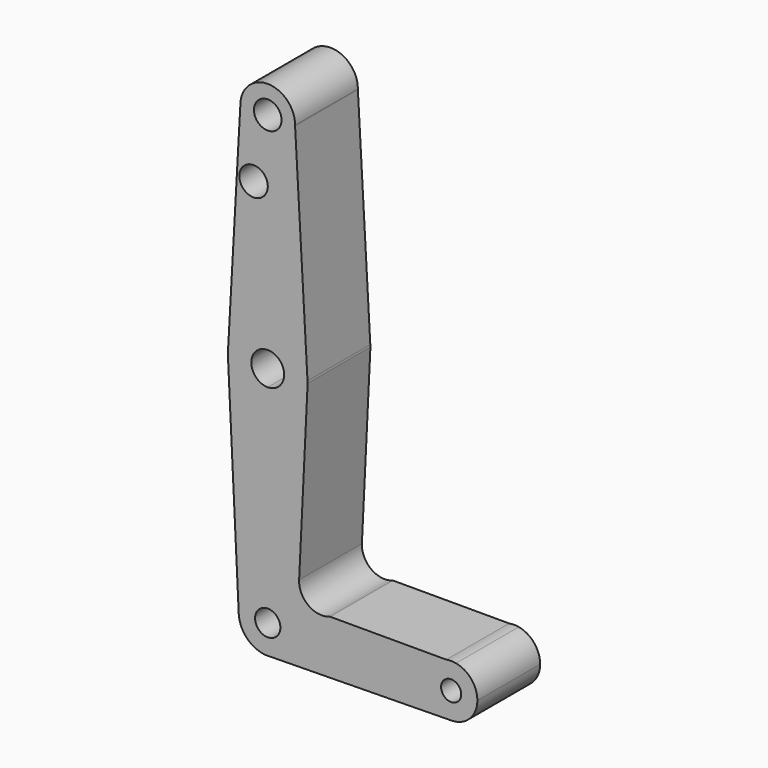
from build123d import *

# Parameters (mm, degrees)
F0_R     = 4.100527945
F0_R_2   = 3.2553358604
F1_DEPTH = 25.4


with BuildPart() as f1:
    # F0 (on Front) → F1 (new body)
    with BuildSketch(Plane.XZ):
        with BuildLine():
            ThreePointArc((0, -5.3145587727), (-5.3145587727, 0), (0, 5.3145587727))
            Line((0, 5.3145587727), (0, 12.8903631138))
            ThreePointArc((0, 12.8903631138), (-8.8562159855, 9.3663706752), (-12.8701730071, 0.7211851179))
            ThreePointArc((-12.8701730071, 0.7211851179), (-9.3663706752, -8.8562159855), (0, -12.8903631138))
            Line((0, -12.8903631138), (0, -5.3145587727))
        make_face()
        with BuildLine():
            Line((0, 12.8903631138), (0, 5.3145587727))
            ThreePointArc((0, 5.3145587727), (3.7579605472, 3.7579605472), (5.3145587727, 0))
            ThreePointArc((5.3145587727, 0), (3.7579605472, -3.7579605472), (0, -5.3145587727))
            Line((0, -5.3145587727), (0, -12.8903631138))
            ThreePointArc((0, -12.8903631138), (9.1148631697, -9.1148631697), (12.8903631138, 0))
            ThreePointArc((12.8903631138, 0), (12.8852513702, 0.3629853085), (12.8699201933, 0.7256827295))
            ThreePointArc((12.8699201933, 0.7256827295), (8.854579248, 9.3679179943), (0, 12.8903631138))
        make_face()
        with BuildLine():
            ThreePointArc((-12.8701730071, 0.7211851179), (-8.8562159855, 9.3663706752), (0, 12.8903631138))
            Line((0, 12.8903631138), (0, 51.4917845364))
            ThreePointArc((0, 51.4917845364), (-9.2008924398, 51.8925450742), (0, 52.2933056121))
            Line((0, 52.2933056121), (0, 63.4140789116))
            ThreePointArc((0, 63.4140789116), (-6.3213763068, 66.0690240438), (-8.8512963855, 72.4414675675))
            Line((-8.8512963855, 72.4414675675), (-12.8701730071, 0.7211851179))
        make_face()
        with BuildLine():
            Line((0, 51.4917845364), (0, 12.8903631138))
            ThreePointArc((0, 12.8903631138), (8.854579248, 9.3679179943), (12.8699201933, 0.7256827295))
            Line((12.8699201933, 0.7256827295), (8.8496832729, 72.024275454))
            ThreePointArc((8.8496832729, 72.024275454), (6.1735803738, 65.921798473), (0, 63.4140789116))
            Line((0, 63.4140789116), (0, 52.2933056121))
            ThreePointArc((0, 52.2933056121), (0.0130897879, 52.0931153324), (0.0174558077, 51.8925450742))
            ThreePointArc((0.0174558077, 51.8925450742), (0.0130897879, 51.691974816), (0, 51.4917845364))
        make_face()
        with BuildLine():
            ThreePointArc((12.8903631138, 0), (9.1148631697, -9.1148631697), (0, -12.8903631138))
            Line((0, -12.8903631138), (0, -63.059151577))
            ThreePointArc((0, -63.059151577), (0.4925974656, -63.072078081), (0.9838390208, -63.110822012))
            ThreePointArc((0.9838390208, -63.110822012), (6.9805417149, -66.1675536831), (9.3923058042, -72.4514573812))
            ThreePointArc((9.3923058042, -72.4514573812), (6.9547187726, -78.7639287764), (0.9072125917, -81.7998462068))
            Line((0.9072125917, -81.7998462068), (59.488009246, -80.9311123288))
            ThreePointArc((59.488009246, -80.9311123288), (56.7257095574, -80.5117904702), (54.2495770477, -79.2176118948))
            ThreePointArc((54.2495770477, -79.2176118948), (50.9036492433, -71.8413047594), (55.2735928676, -65.0215736395))
            ThreePointArc((55.2735928676, -65.0215736395), (56.4936209685, -64.4707758049), (57.7851192264, -64.118811217))
            Line((57.7851192264, -64.118811217), (20.1766155648, -64.118811217))
            ThreePointArc((20.1766155648, -64.118811217), (13.2047572322, -63.2148752561), (10.1571750656, -56.8795653371))
            Line((10.1571750656, -56.8795653371), (12.9108384834, 0))
            Line((12.9108384834, 0), (12.8699201933, 0.7256827295))
            ThreePointArc((12.8699201933, 0.7256827295), (12.8852513702, 0.3629853085), (12.8903631138, 0))
        make_face()
        with BuildLine():
            Line((0, -63.059151577), (0, -12.8903631138))
            ThreePointArc((0, -12.8903631138), (-9.3663706752, -8.8562159855), (-12.8701730071, 0.7211851179))
            Line((-12.8701730071, 0.7211851179), (-12.9105849228, 0))
            Line((-12.9105849228, 0), (-9.3813201349, -72.905594857))
            ThreePointArc((-9.3813201349, -72.905594857), (-6.8000296459, -65.9726453655), (0, -63.059151577))
        make_face()
        with BuildLine():
            Line((0.9838390208, -63.110822012), (0, -63.059151577))
            ThreePointArc((0, -63.059151577), (-6.8000296459, -65.9726453655), (-9.3813201349, -72.905594857))
            ThreePointArc((-9.3813201349, -72.905594857), (-6.4788120158, -79.2514870271), (0, -81.8437631855))
            Line((0, -81.8437631855), (0.9072125917, -81.7998462068))
            ThreePointArc((0.9072125917, -81.7998462068), (6.9547187726, -78.7639287764), (9.3923058042, -72.4514573812))
            ThreePointArc((9.3923058042, -72.4514573812), (6.9805417149, -66.1675536831), (0.9838390208, -63.110822012))
        make_face()
        with Locations((0, -72.4514573812)):
            Circle(F0_R, mode=Mode.SUBTRACT)
        with BuildLine():
            ThreePointArc((0, 63.4140789116), (6.1735803738, 65.921798473), (8.8496832729, 72.024275454))
            ThreePointArc((8.8496832729, 72.024275454), (8.8521811686, 72.1456726888), (8.8530138527, 72.2670927644))
            ThreePointArc((8.8530138527, 72.2670927644), (0.4082263103, 81.110689632), (-8.8153659459, 73.0826769212))
            Line((-8.8153659459, 73.0826769212), (-8.8512963855, 72.4414675675))
            ThreePointArc((-8.8512963855, 72.4414675675), (-6.3213763068, 66.0690240438), (0, 63.4140789116))
        make_face()
        with BuildLine():
            ThreePointArc((4.4568849736, 72.2670927644), (3.1514935878, 69.1155991766), (0, 67.8102077908))
            ThreePointArc((0, 67.8102077908), (-3.1514935878, 75.4185863522), (4.4568849736, 72.2670927644))
        make_face(mode=Mode.SUBTRACT)
        with BuildLine():
            ThreePointArc((-8.8153659459, 73.0826769212), (-8.8391474047, 72.7623981598), (-8.8512963855, 72.4414675675))
            Line((-8.8512963855, 72.4414675675), (-8.8153659459, 73.0826769212))
        make_face()
        with BuildLine():
            Line((0.9072125917, -81.7998462068), (0, -81.8437631855))
            ThreePointArc((0, -81.8437631855), (0.4541374757, -81.8327775161), (0.9072125917, -81.7998462068))
        make_face()
        with BuildLine():
            Line((60.9393982978, -64.118811217), (57.7851192264, -64.118811217))
            ThreePointArc((57.7851192264, -64.118811217), (56.4936209685, -64.4707758049), (55.2735928676, -65.0215736395))
            ThreePointArc((55.2735928676, -65.0215736395), (50.9036492433, -71.8413047594), (54.2495770477, -79.2176118948))
            ThreePointArc((54.2495770477, -79.2176118948), (56.7257095574, -80.5117904702), (59.488009246, -80.9311123288))
            ThreePointArc((59.488009246, -80.9311123288), (65.4032354701, -78.4035126252), (67.8428460775, -72.4514573812))
            ThreePointArc((67.8428460775, -72.4514573812), (65.8927805925, -67.0410372648), (60.9393982978, -64.118811217))
        make_face()
        with Locations((59.3622587621, -72.4514573812)):
            Circle(F0_R_2, mode=Mode.SUBTRACT)
        with BuildLine():
            ThreePointArc((60.9393982978, -64.118811217), (59.3622587621, -63.9708700659), (57.7851192264, -64.118811217))
            Line((57.7851192264, -64.118811217), (60.9393982978, -64.118811217))
        make_face()
    extrude(amount=F1_DEPTH)


solid = f1.part
